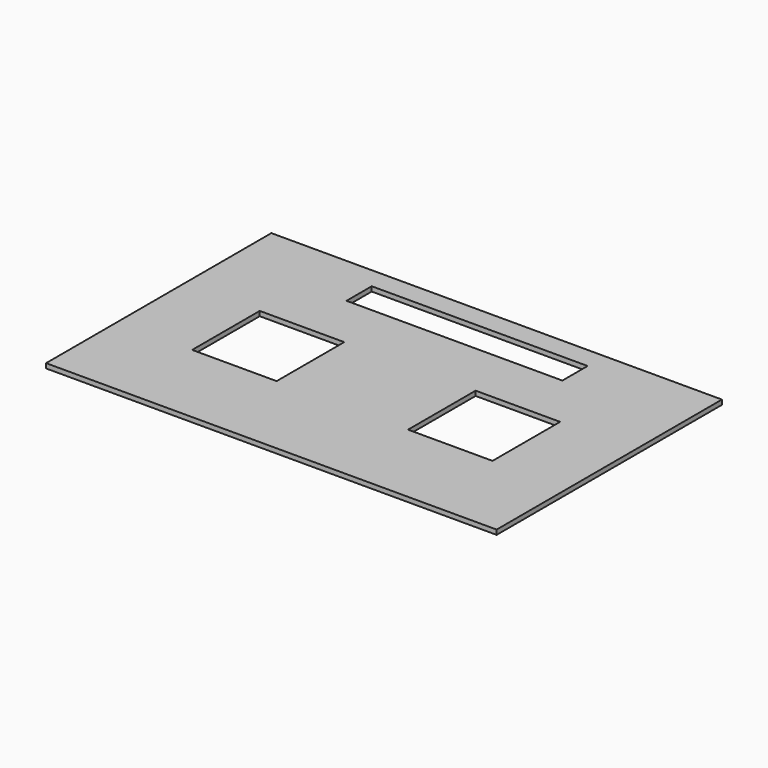
from build123d import *

# Parameters (mm, degrees)
F0_W     = 1219.2
F0_H     = 762
F0_W_2   = 228.6
F0_H_2   = 228.6
F0_W_3   = 584.2
F0_H_3   = 85.345954
F1_DEPTH = 12.7


with BuildPart() as f1:
    # F0 (on Top) → F1 (new body)
    with BuildSketch(Plane.XY):
        Rectangle(F0_W, F0_H)
        with Locations((-292.1, -26.632991)):
            Rectangle(F0_W_2, F0_H_2, mode=Mode.SUBTRACT)
        with Locations((292.1, -26.632991)):
            Rectangle(F0_W_2, F0_H_2, mode=Mode.SUBTRACT)
        with Locations((0, 280.944902)):
            Rectangle(F0_W_3, F0_H_3, mode=Mode.SUBTRACT)
    extrude(amount=F1_DEPTH)


solid = f1.part
